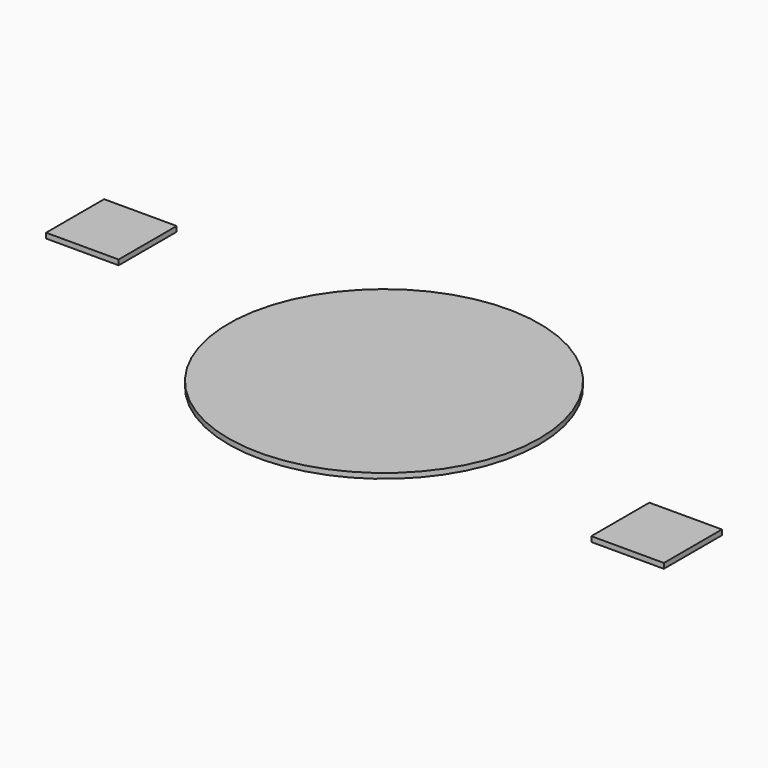
from build123d import *

# Parameters (mm, degrees)
F0_R     = 3
F0_W     = 1.4
F0_H     = 1.4
F1_DEPTH = 0.1


with BuildPart() as f1:
    # F0 (on Top) → F1 (new body)
    with BuildSketch(Plane.XY):
        Circle(F0_R)
        with Locations((6.3, -1.3)):
            Rectangle(F0_W, F0_H)
        with Locations((-6.3, 1.3)):
            Rectangle(F0_W, F0_H)
    extrude(amount=F1_DEPTH)


solid = f1.part
